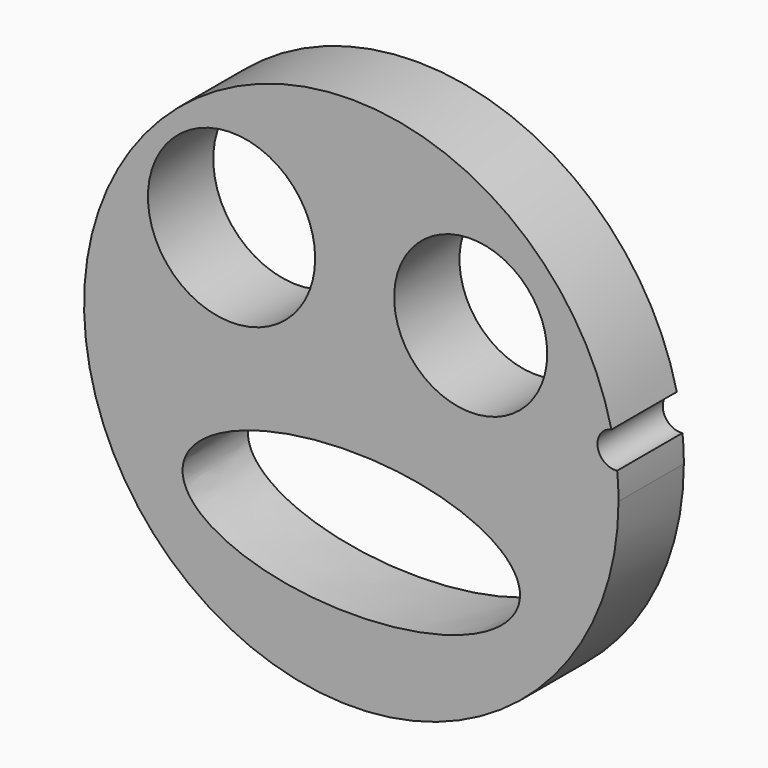
from build123d import *

# Parameters (mm, degrees)
F2_DEPTH = 25.4
F1_R     = 23.8034536531
F1_R_2   = 26.0029572039
F3_DEPTH = 51.562


with BuildPart() as f2:
    # F0 (on Front) → F2 (new body)
    with BuildSketch(Plane.XZ):
        with BuildLine():
            ThreePointArc((80.9001052948, 18.9651504489), (-82.5432138965, -9.5457743473), (83.0933449096, 0))
            ThreePointArc((83.0933449096, 0), (82.9896173096, 4.150588761), (82.6786934815, 8.2908149446))
            ThreePointArc((82.6786934815, 8.2908149446), (76.6233510402, 12.7672010059), (80.9001052948, 18.9651504489))
        make_face()
    extrude(amount=F2_DEPTH)

    # F1 (on Front) → F3 (cut)
    with BuildSketch(Plane.XZ):
        with Locations((37.1288508177, 33.230368048)):
            Circle(F1_R)
        with Locations((-37.2369028628, 35.8653739095)):
            Circle(F1_R_2)
        with BuildLine():
            add(Edge.make_bspline(
                [(-52.4613894522, -35.5725958943), (-52.4613894522, -74.1188410816), (26.2306947261, -54.8457184879), (104.9227789044, -35.5725958943), (26.2306947261, -16.2994733007), (-52.4613894522, 2.9736492929), (-52.4613894522, -35.5725958943)],
                knots=[0, 0, 0, 2.0943951024, 2.0943951024, 4.1887902048, 4.1887902048, 6.2831853072, 6.2831853072, 6.2831853072], degree=2, weights=[1, 0.5, 1, 0.5, 1, 0.5, 1]))
        make_face()
    extrude(amount=F3_DEPTH, mode=Mode.SUBTRACT)


solid = f2.part
